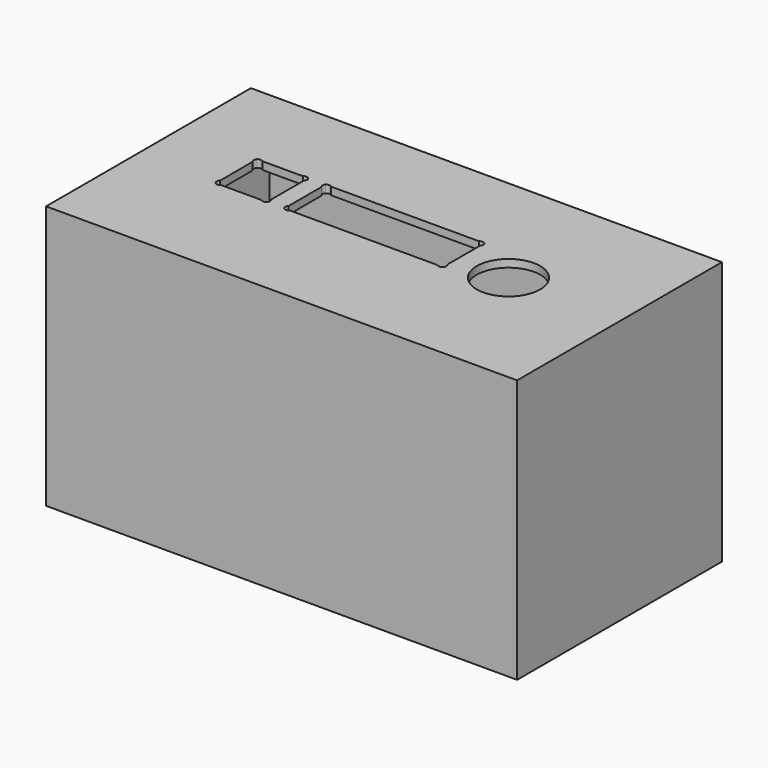
from build123d import *

# Parameters (mm, degrees)
F0_W     = 92
F0_H     = 50
F0_W_2   = 72
F0_H_2   = 34.1
F1_DEPTH = 50
F0_R     = 6.2
F2_DEPTH = 1.5


with BuildPart() as f1:
    # F0 (on Top) → F1 (new body)
    with BuildSketch(Plane.XY):
        Rectangle(F0_W, F0_H)
        Rectangle(F0_W_2, F0_H_2, mode=Mode.SUBTRACT)
    extrude(amount=-F1_DEPTH)

    # F0 (on Top) → F2 (join)
    with BuildSketch(Plane.XY):
        Rectangle(F0_W, F0_H)
        Rectangle(F0_W_2, F0_H_2, mode=Mode.SUBTRACT)
        Rectangle(F0_W_2, F0_H_2)
        with BuildLine():
            ThreePointArc((-30.6, 6.18934), (-30.81967, 6.71967), (-30.6, 7.25))
            ThreePointArc((-30.6, 7.25), (-30.06967, 7.46967), (-29.53934, 7.25))
            Line((-29.53934, 7.25), (-21.66066, 7.25))
            ThreePointArc((-21.66066, 7.25), (-21.13033, 7.46967), (-20.6, 7.25))
            ThreePointArc((-20.6, 7.25), (-20.43742, 7.006682), (-20.38033, 6.71967))
            ThreePointArc((-20.38033, 6.71967), (-20.43742, 6.432657), (-20.6, 6.18934))
            Line((-20.6, 6.18934), (-20.6, -1.78934))
            ThreePointArc((-20.6, -1.78934), (-20.43742, -2.032657), (-20.38033, -2.31967))
            ThreePointArc((-20.38033, -2.31967), (-20.43742, -2.606682), (-20.6, -2.85))
            ThreePointArc((-20.6, -2.85), (-21.13033, -3.06967), (-21.66066, -2.85))
            Line((-21.66066, -2.85), (-29.53934, -2.85))
            ThreePointArc((-29.53934, -2.85), (-30.06967, -3.06967), (-30.6, -2.85))
            ThreePointArc((-30.6, -2.85), (-30.81967, -2.31967), (-30.6, -1.78934))
            Line((-30.6, -1.78934), (-30.6, 6.18934))
        make_face(mode=Mode.SUBTRACT)
        with BuildLine():
            ThreePointArc((-17.2, 6.18934), (-17.41967, 6.71967), (-17.2, 7.25))
            ThreePointArc((-17.2, 7.25), (-16.66967, 7.46967), (-16.13934, 7.25))
            Line((-16.13934, 7.25), (12.73934, 7.25))
            ThreePointArc((12.73934, 7.25), (13.26967, 7.46967), (13.8, 7.25))
            ThreePointArc((13.8, 7.25), (13.96258, 7.006682), (14.01967, 6.71967))
            ThreePointArc((14.01967, 6.71967), (13.96258, 6.432657), (13.8, 6.18934))
            Line((13.8, 6.18934), (13.8, -1.78934))
            ThreePointArc((13.8, -1.78934), (13.96258, -2.032657), (14.01967, -2.31967))
            ThreePointArc((14.01967, -2.31967), (13.96258, -2.606682), (13.8, -2.85))
            ThreePointArc((13.8, -2.85), (13.26967, -3.06967), (12.73934, -2.85))
            Line((12.73934, -2.85), (-16.13934, -2.85))
            ThreePointArc((-16.13934, -2.85), (-16.66967, -3.06967), (-17.2, -2.85))
            ThreePointArc((-17.2, -2.85), (-17.41967, -2.31967), (-17.2, -1.78934))
            Line((-17.2, -1.78934), (-17.2, 6.18934))
        make_face(mode=Mode.SUBTRACT)
        with Locations((23.8, 0.65)):
            Circle(F0_R, mode=Mode.SUBTRACT)
    extrude(amount=F2_DEPTH)


solid = f1.part
